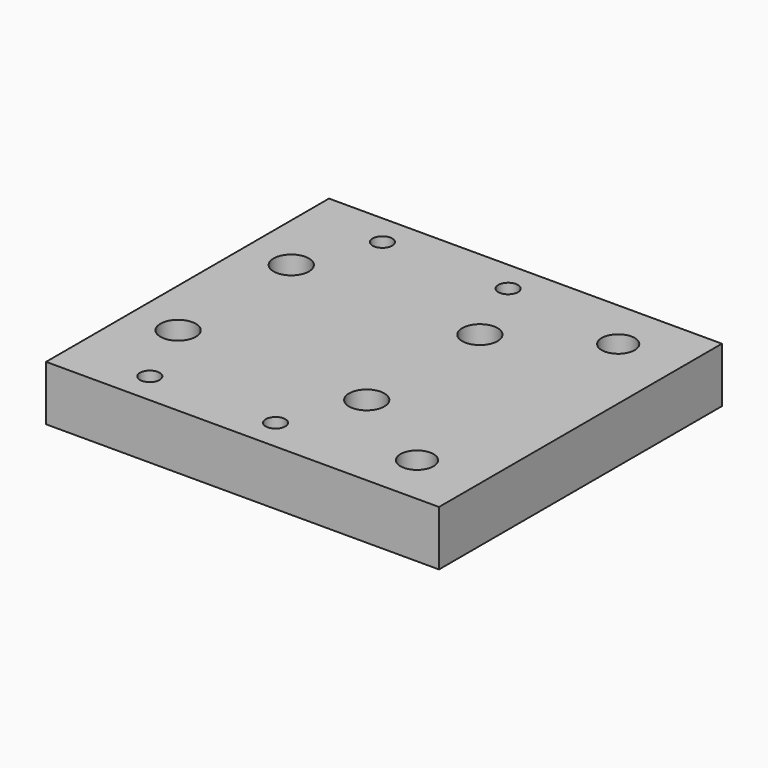
from build123d import *

# Parameters (mm, degrees)
F0_W     = 50
F0_H     = 45
F1_DEPTH = 7
F3_D     = 4.2
F5_D     = 4.5
F7_D     = 2.5


with BuildPart() as f1:
    # F0 (on Top) → F1 (new body)
    with BuildSketch(Plane.XY):
        with Locations((15.1915311813, 4.4455631077)):
            Rectangle(F0_W, F0_H)
    extrude(amount=F1_DEPTH)

    # F3 (through all)
    with Locations(Plane.XY.offset(7)):
        with Locations((32.1915311813, 20.4455631077), (32.1915311813, -11.5544368923)):
            Hole(F3_D / 2)

    # F5 (through all)
    with Locations(Plane.XY.offset(7)):
        with Locations((-3.8084688187, 13.4455631077), (20.1915311813, 13.4455631077), (20.1915311813, -4.5544368923), (-3.8084688187, -4.5544368923)):
            Hole(F5_D / 2)

    # F7 (through all)
    with Locations(Plane(origin=(0, 0, 0), x_dir=(1, 0, 0), z_dir=(0, 0, -1))):
        with Locations((0.1915311813, 14.0544368923), (16.1915311813, 14.0544368923), (16.1915311813, -22.9455631077), (0.1915311813, -22.9455631077)):
            Hole(F7_D / 2)


solid = f1.part
